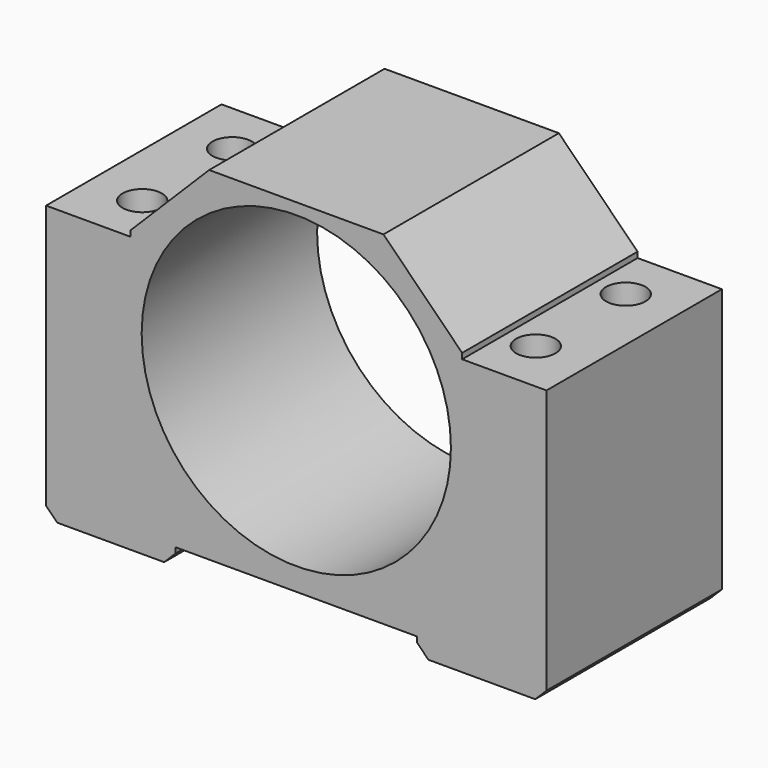
from build123d import *

# Parameters (mm, degrees)
SKETCH_W        = 89
SKETCH_H        = 39
PAD_DEPTH       = 64
SKETCH001_W     = 43
SKETCH001_H     = 39
POCKET_DEPTH    = 3
CHAMFER_SIZE    = 2
SKETCH002_R     = 27.5
POCKET001_DEPTH = 39.001
SKETCH003_W     = 15
SKETCH003_H     = 39
POCKET002_DEPTH = 15
CHAMFER001_SIZE = 14
SKETCH004_R     = 3.5
POCKET003_DEPTH = 64.001


with BuildPart() as part:
    # Sketch → Pad (new body)
    with BuildSketch(Plane.XY):
        Rectangle(SKETCH_W, SKETCH_H)
    extrude(amount=PAD_DEPTH)

    # Sketch001 → Pocket (cut)
    with BuildSketch(Plane.XY):
        Rectangle(SKETCH001_W, SKETCH001_H)
    extrude(amount=POCKET_DEPTH, mode=Mode.SUBTRACT)

    # Chamfer
    chamfer_edges = [part.edges().sort_by_distance(p)[0] for p in [
        (21.5, 0, 0),
        (-21.5, 0, 0),
        (44.5, 0, 0),
        (-44.5, 0, 0),
    ]]
    chamfer(chamfer_edges, length=CHAMFER_SIZE)

    # Sketch002 (on Face1 of Chamfer) → Pocket001 (cut, through all)
    with BuildSketch(Plane.XZ.offset(19.5)):
        with Locations((0, 34.5)):
            Circle(SKETCH002_R)
    extrude(amount=-POCKET001_DEPTH, mode=Mode.SUBTRACT)

    # Sketch003 (on Face7 of Pocket001) → Pocket002 (cut)
    with BuildSketch(Plane.XY.offset(64)):
        with Locations((-37, 0)):
            Rectangle(SKETCH003_W, SKETCH003_H)
        with Locations((37, 0)):
            Rectangle(SKETCH003_W, SKETCH003_H)
    extrude(amount=-POCKET002_DEPTH, mode=Mode.SUBTRACT)

    # Chamfer001
    chamfer001_edges = [part.edges().sort_by_distance(p)[0] for p in [
        (29.5, 0, 64),
        (-29.5, 0, 64),
    ]]
    chamfer(chamfer001_edges, length=CHAMFER001_SIZE)

    # Sketch004 (on Face10 of Chamfer001) → Pocket003 (cut, through all)
    with BuildSketch(Plane(origin=(0, 0, 0), x_dir=(1, 0, 0), z_dir=(0, 0, -1))):
        with Locations((-35, -10)):
            Circle(SKETCH004_R)
        with Locations((-35, 10)):
            Circle(SKETCH004_R)
        with Locations((35, 10)):
            Circle(SKETCH004_R)
        with Locations((35, -10)):
            Circle(SKETCH004_R)
    extrude(amount=-POCKET003_DEPTH, mode=Mode.SUBTRACT)


solid = part.part
